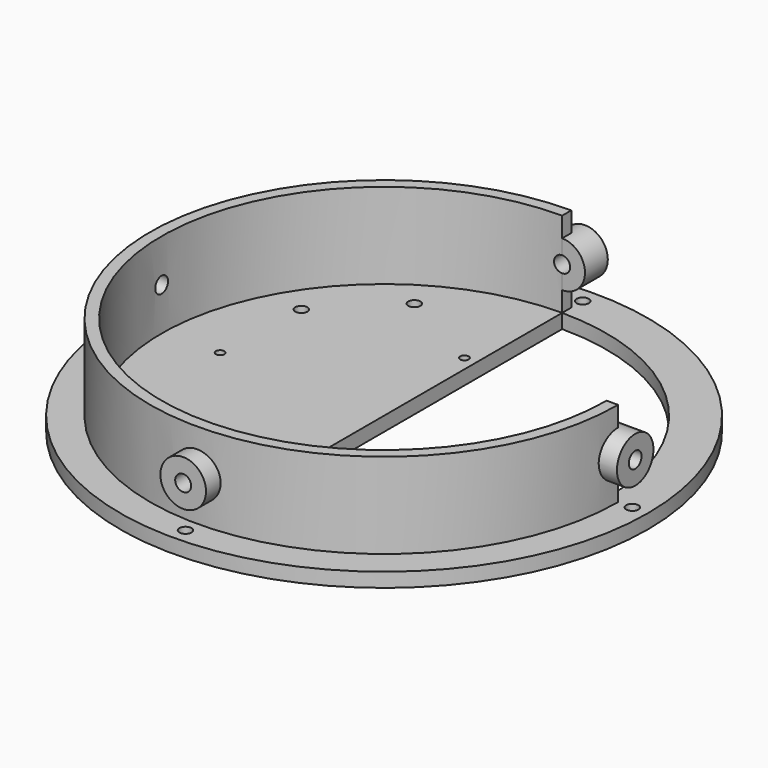
from build123d import *

# Parameters (mm, degrees)
CYLINDER141_R     = 2.8
CYLINDER141_DEPTH = 300
CYLINDER142_R     = 2.8
CYLINDER142_DEPTH = 300
CYLINDER144_R     = 8
CYLINDER144_DEPTH = 10
CYLINDER145_R     = 8
CYLINDER145_DEPTH = 10
CYLINDER146_R     = 8
CYLINDER146_DEPTH = 10
CYLINDER143_R     = 8
CYLINDER143_DEPTH = 10
SKETCH047_R       = 2.125
EXTRUDE029_DEPTH  = 20
CYLINDER115_W     = 78
CYLINDER115_H     = 30
CYLINDER115_ANGLE = 270
CYLINDER114_W     = 82
CYLINDER114_H     = 30
CYLINDER114_ANGLE = 270
SKETCH030_R       = 92.5
SKETCH030_R_2     = 2.125
SKETCH030_R_3     = 1.5
EXTRUDE012_DEPTH  = 5


with BuildPart() as cylinder141:
    # Cylinder141 → Cylinder141 (new body)
    with BuildSketch(Plane(origin=(0, 0, 90), x_dir=(1, 0, 0), z_dir=(0, -1, 0))):
        Circle(CYLINDER141_R)
    extrude(amount=CYLINDER141_DEPTH)


with BuildPart() as m4heatsetcuts003:
    # Cylinder142 → Cylinder142 (new body)
    with BuildSketch(Plane(origin=(-150, -150, 90), x_dir=(0, 1, 0), z_dir=(1, 0, 0))):
        Circle(CYLINDER142_R)
    extrude(amount=CYLINDER142_DEPTH)

    # Fusion089: union Cylinder141
    add(cylinder141.part)


with BuildPart() as m4heatsetcuts003_1:
    # Fusion089 placement: moved
    add(m4heatsetcuts003.part.moved(Location((0, 0, -130))))


with BuildPart() as heatsetholds001:
    # Cylinder144 → Cylinder144 (new body)
    with BuildSketch(Plane(origin=(0, -228, -40), x_dir=(-1, 0, 0), z_dir=(0, -1, 0))):
        Circle(CYLINDER144_R)
    extrude(amount=CYLINDER144_DEPTH)


with BuildPart() as heatsetholds002:
    # Cylinder145 → Cylinder145 (new body)
    with BuildSketch(Plane(origin=(78, -150, -40), x_dir=(0, -1, 0), z_dir=(1, 0, 0))):
        Circle(CYLINDER145_R)
    extrude(amount=CYLINDER145_DEPTH)


with BuildPart() as heatsetholds003:
    # Cylinder146 → Cylinder146 (new body)
    with BuildSketch(Plane(origin=(-78, -150, -40), x_dir=(0, 1, 0), z_dir=(-1, 0, 0))):
        Circle(CYLINDER146_R)
    extrude(amount=CYLINDER146_DEPTH)


with BuildPart() as m4heatsetholds:
    # Cylinder143 → Cylinder143 (new body)
    with BuildSketch(Plane(origin=(0, -72, -40), x_dir=(1, 0, 0), z_dir=(0, 1, 0))):
        Circle(CYLINDER143_R)
    extrude(amount=CYLINDER143_DEPTH)

    # Fusion090: union heatSetHolds001, heatSetHolds002, heatSetHolds003
    add(heatsetholds001.part)
    add(heatsetholds002.part)
    add(heatsetholds003.part)


with BuildPart() as m4vercuts001:
    # Sketch047 → Extrude029 (new body)
    with BuildSketch(Plane.XY):
        with Locations((0, -63)):
            Circle(SKETCH047_R)
        with Locations((87, -150)):
            Circle(SKETCH047_R)
        with Locations((0, -237)):
            Circle(SKETCH047_R)
        with Locations((-87, -150)):
            Circle(SKETCH047_R)
    extrude(amount=EXTRUDE029_DEPTH)


with BuildPart() as m4vercuts001_1:
    # Extrude029 placement: moved
    add(m4vercuts001.part.moved(Location((0, 0, -65.5))))


with BuildPart() as cylinder115:
    # Cylinder115 → Cylinder115 (revolve)
    with BuildSketch(Plane(origin=(0, -150, 0), x_dir=(0, 1, 0), z_dir=(1, 0, 0))):
        with Locations((39, 15)):
            Rectangle(CYLINDER115_W, CYLINDER115_H)
    revolve(axis=Axis((0, -150, 0), (0, 0, 1)), revolution_arc=CYLINDER115_ANGLE)


with BuildPart() as cut028:
    # Cylinder114 → Cylinder114 (revolve)
    with BuildSketch(Plane(origin=(0, -150, 0), x_dir=(0, 1, 0), z_dir=(1, 0, 0))):
        with Locations((41, 15)):
            Rectangle(CYLINDER114_W, CYLINDER114_H)
    revolve(axis=Axis((0, -150, 0), (0, 0, 1)), revolution_arc=CYLINDER114_ANGLE)

    # Cut028: cut Cylinder115
    add(cylinder115.part, mode=Mode.SUBTRACT)


with BuildPart() as cut028_1:
    # Cut028 placement: moved
    add(cut028.part.moved(Location((0, 0, -55))))


with BuildPart() as level3s:
    # Sketch030 → Extrude012 (new body)
    with BuildSketch(Plane.XY):
        with Locations((0, -150)):
            Circle(SKETCH030_R)
        with Locations((-57, -115)):
            Circle(SKETCH030_R_2, mode=Mode.SUBTRACT)
        with Locations((-57, -185)):
            Circle(SKETCH030_R_2, mode=Mode.SUBTRACT)
        with Locations((-35, -207)):
            Circle(SKETCH030_R_2, mode=Mode.SUBTRACT)
        with Locations((-35, -93)):
            Circle(SKETCH030_R_2, mode=Mode.SUBTRACT)
        with Locations((-4.2, -109.55)):
            Circle(SKETCH030_R_3, mode=Mode.SUBTRACT)
        with Locations((-58.33, -148.9)):
            Circle(SKETCH030_R_3, mode=Mode.SUBTRACT)
        with Locations((-4.2, -180.9)):
            Circle(SKETCH030_R_3, mode=Mode.SUBTRACT)
        with BuildLine():
            ThreePointArc((0, -228), (78, -150), (0, -72))
            Line((0, -72), (0, -228))
        make_face(mode=Mode.SUBTRACT)
    extrude(amount=EXTRUDE012_DEPTH)


with BuildPart() as level3s_1:
    # Extrude012 placement: moved
    add(level3s.part.moved(Location((0, 0, -60))))

    # Fusion067: union Cut028
    add(cut028_1.part)

    # Cut043: cut m4VerCuts001
    add(m4vercuts001_1.part, mode=Mode.SUBTRACT)

    # Fusion091: union m4HeatSetHolds
    add(m4heatsetholds.part)

    # Cut045: cut m4HeatSetCuts003
    add(m4heatsetcuts003_1.part, mode=Mode.SUBTRACT)


solid = level3s_1.part
